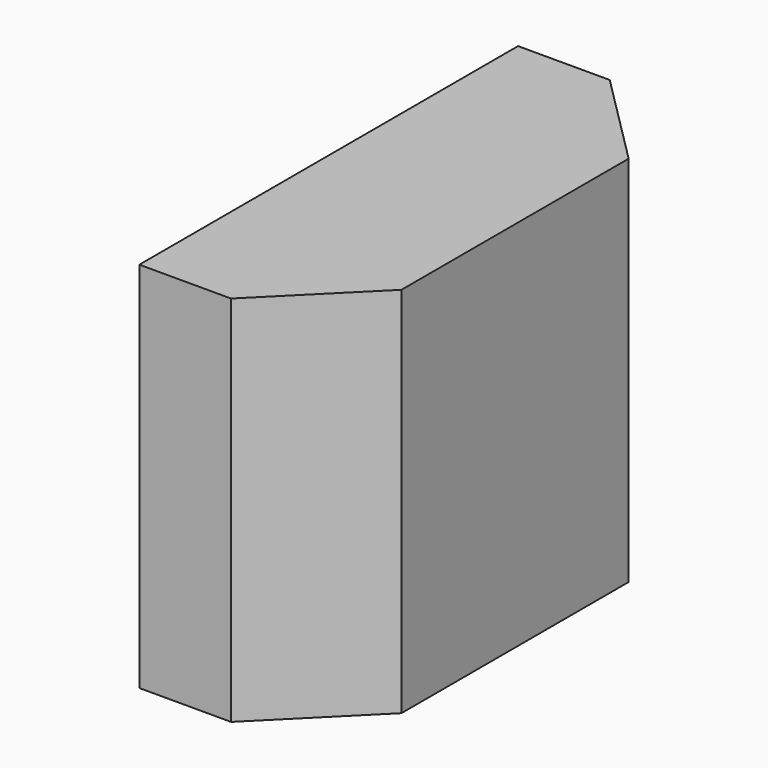
from build123d import *

# Parameters (mm, degrees)
F0_W     = 10
F0_H     = 20
F1_DEPTH = 25.4
F2_SIZE  = 5.08


with BuildPart() as f1:
    # F0 (on Front) → F1 (new body)
    with BuildSketch(Plane.XZ):
        with Locations((5, 10)):
            Rectangle(F0_W, F0_H)
    extrude(amount=F1_DEPTH)

    # F2
    f2_edges = [f1.edges().sort_by_distance(p)[0] for p in [
        (10, -25.4, 10),
        (10, 0, 10),
    ]]
    chamfer(f2_edges, length=F2_SIZE)


solid = f1.part
